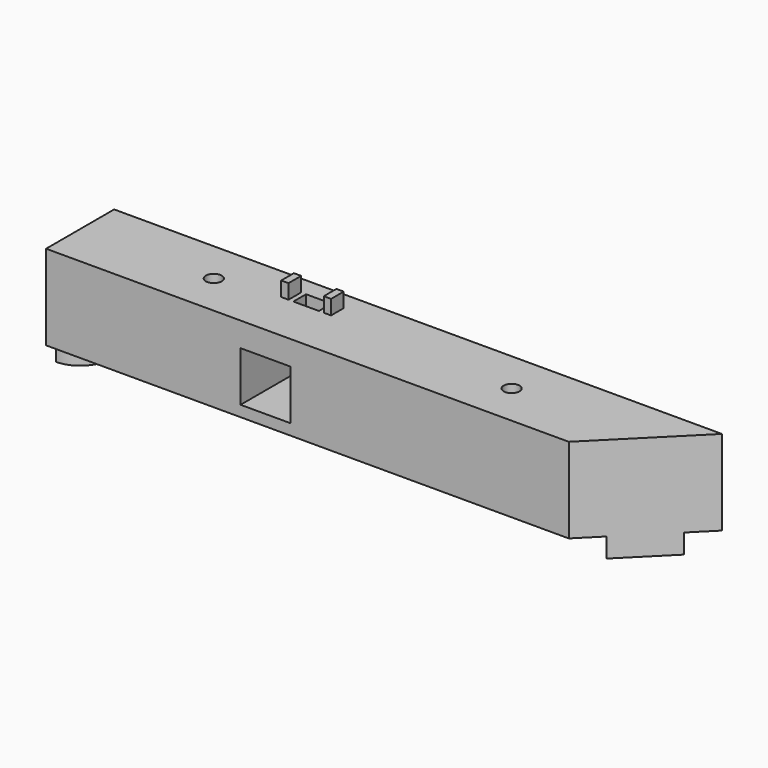
from build123d import *

# Parameters (mm, degrees)
F1_DEPTH  = 35
F3_D      = 6.5
F3_DEPTH  = 35
F3_TIP    = 1.9527970118
F4_D      = 6.5
F4_DEPTH  = 35
F4_TIP    = 1.9527970118
F6_W      = 24
F6_H      = 24
F7_DEPTH  = 25.5
F9_DEPTH  = 8
F11_DEPTH = 8
F12_W     = 20.5
F12_H     = 20.5
F13_DEPTH = 100
F14_W     = 10.5
F14_H     = 6.5
F16_DEPTH = 34
F15_W     = 3
F15_H     = 6.5
F17_DEPTH = 6


with BuildPart() as f1:
    # F0 (on Top) → F1 (new body)
    with BuildSketch(Plane.XY):
        Polygon((90, -17.5), (125, 17.5), (-125, 17.5), (-125, -17.5), align=None)
    extrude(amount=F1_DEPTH)

    # F3
    with Locations(Plane.XY.offset(35)):
        with Locations((-70, 0)):
            Hole(F3_D / 2, depth=F3_DEPTH)
            with Locations((0, 0, -(F3_DEPTH + F3_TIP / 2))):  # 118° drill point
                Cone(0, F3_D / 2, F3_TIP, mode=Mode.SUBTRACT)

    # F4
    with Locations(Plane.XY.offset(35)):
        with Locations((52.5, 0)):
            Hole(F4_D / 2, depth=F4_DEPTH)
            with Locations((0, 0, -(F4_DEPTH + F4_TIP / 2))):  # 118° drill point
                Cone(0, F4_D / 2, F4_TIP, mode=Mode.SUBTRACT)

    # F6 (on face) → F7 (cut)
    with BuildSketch(Plane(origin=(-125, 0, 0), x_dir=(0, -1, 0), z_dir=(-1, 0, 0))):
        with Locations((0, 17.5)):
            Rectangle(F6_W, F6_H)
    extrude(amount=-F7_DEPTH, mode=Mode.SUBTRACT)

    # F8 (on face) → F9 (join)
    with BuildSketch(Plane(origin=(0, 0, 0), x_dir=(1, 0, 0), z_dir=(0, 0, -1))):
        with BuildLine():
            Line((116.3388347648, -8.8388347648), (98.6611652352, 8.8388347648))
            ThreePointArc((98.6611652352, 8.8388347648), (98.6611652352, -8.8388347648), (116.3388347648, -8.8388347648))
        make_face()
    extrude(amount=F9_DEPTH)

    # F10 (on face) → F11 (join)
    with BuildSketch(Plane(origin=(0, 0, 0), x_dir=(1, 0, 0), z_dir=(0, 0, -1))):
        with BuildLine():
            ThreePointArc((-125, -12.5), (-116.1611652352, -8.8388347648), (-112.5, 0))
            ThreePointArc((-112.5, 0), (-116.1611652352, 8.8388347648), (-125, 12.5))
            Line((-125, 12.5), (-125, -12.5))
        make_face()
    extrude(amount=F11_DEPTH)

    # F12 (on face) → F13 (cut)
    with BuildSketch(Plane(origin=(0, 17.5, 0), x_dir=(-1, 0, 0), z_dir=(0, 1, 0))):
        with Locations((34.75, 14.75)):
            Rectangle(F12_W, F12_H)
    extrude(amount=-F13_DEPTH, mode=Mode.SUBTRACT)

    # F14 (on face) → F16 (cut)
    with BuildSketch(Plane.XY.offset(35)):
        with Locations((-34.7681139037, 6.6779768765)):
            Rectangle(F14_W, F14_H)
    extrude(amount=-F16_DEPTH, mode=Mode.SUBTRACT)

    # F15 (on face) → F17 (join)
    with BuildSketch(Plane.XY.offset(35)):
        with Locations((-43.5181139037, 6.6779768765)):
            Rectangle(F15_W, F15_H)
        with Locations((-26.0181139037, 6.6779768765)):
            Rectangle(F15_W, F15_H)
    extrude(amount=F17_DEPTH)


solid = f1.part
